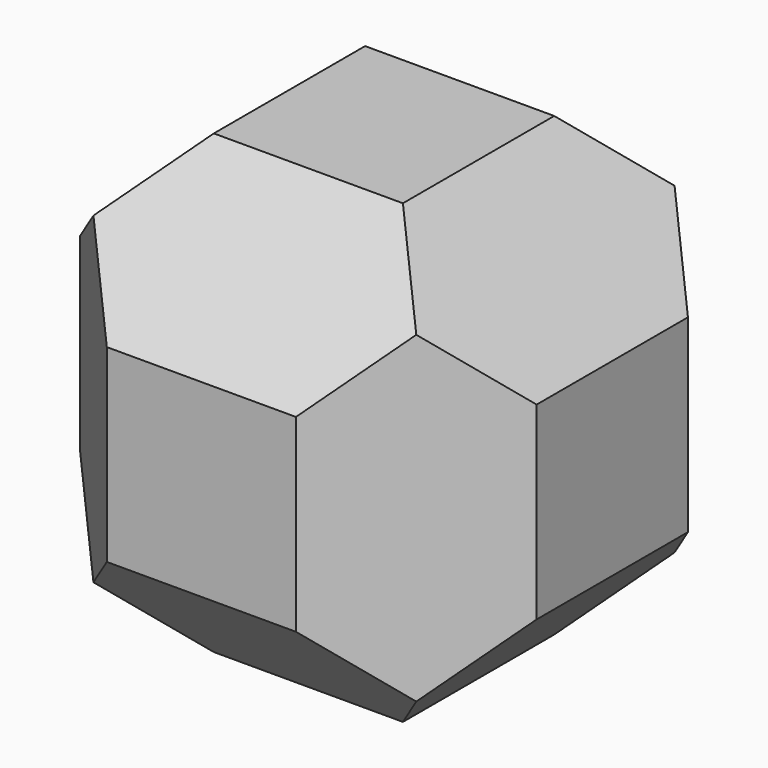
from build123d import *

# Parameters (mm, degrees)
F0_W     = 203.2
F0_H     = 203.2
F1_DEPTH = 101.6
F3_DEPTH = 203.2
F5_DEPTH = 101.6
F7_DEPTH = 101.6


with BuildPart() as f1:
    # F0 (on Front) → F1 (new body, symmetric)
    with BuildSketch(Plane.XZ):
        Rectangle(F0_W, F0_H)
    extrude(amount=F1_DEPTH, both=True)

    # F2 (on face) → F3 (cut)
    with BuildSketch(Plane.XY.offset(101.6)):
        Polygon((-101.6, 42.084098), (-42.084098, 101.6), (-101.6, 101.6), align=None)
        Polygon((101.6, 101.6), (42.084098, 101.6), (101.6, 42.084098), align=None)
        Polygon((101.6, -101.6), (101.6, -42.084098), (42.084098, -101.6), align=None)
        Polygon((-42.084098, -101.6), (-101.6, -42.084098), (-101.6, -101.6), align=None)
    extrude(amount=-F3_DEPTH, mode=Mode.SUBTRACT)

    # F4 (on Front) → F5 (cut, symmetric)
    with BuildSketch(Plane.XZ):
        Polygon((-101.6, 42.084098), (-42.084098, 101.6), (-101.6, 101.6), align=None)
        Polygon((-101.6, -101.6), (-42.084098, -101.6), (-101.6, -42.084098), align=None)
        Polygon((101.6, -101.6), (101.6, -42.084098), (42.084098, -101.6), align=None)
        Polygon((101.6, 101.6), (42.084098, 101.6), (101.6, 42.084098), align=None)
    extrude(amount=F5_DEPTH, both=True, mode=Mode.SUBTRACT)

    # F6 (on Right) → F7 (cut, symmetric)
    with BuildSketch(Plane.YZ):
        Polygon((101.6, 101.6), (42.084098, 101.6), (101.6, 42.084098), align=None)
        Polygon((101.6, -101.6), (101.6, -42.084098), (42.084098, -101.6), align=None)
        Polygon((-101.6, -101.6), (-42.084098, -101.6), (-101.6, -42.084098), align=None)
        Polygon((-101.6, 42.084098), (-42.084098, 101.6), (-101.6, 101.6), align=None)
    extrude(amount=F7_DEPTH, both=True, mode=Mode.SUBTRACT)


solid = f1.part
